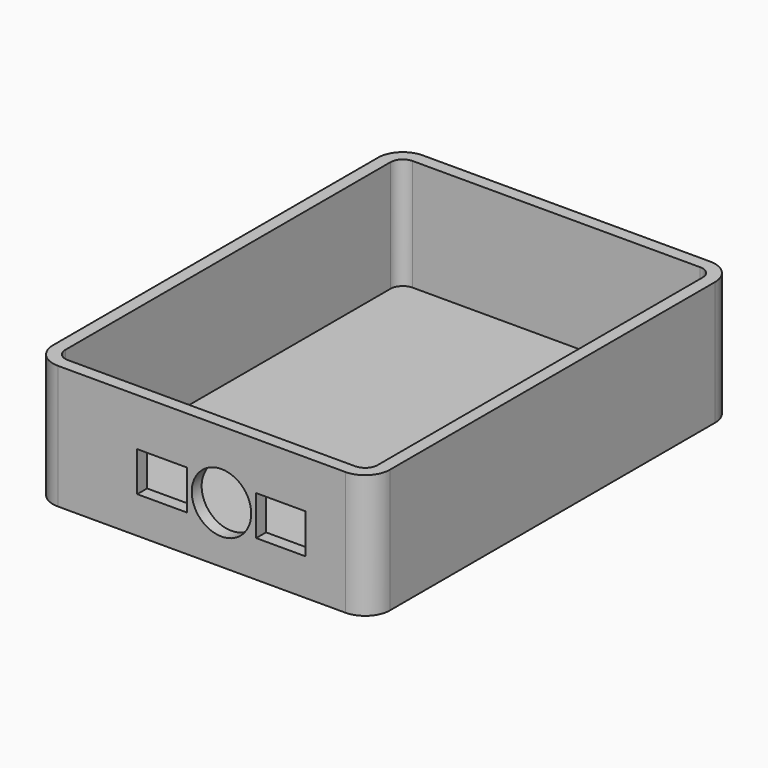
from build123d import *

# Parameters (mm, degrees)
F0_W     = 58
F0_H     = 82
F1_DEPTH = 19
F2_W     = 67.999994
F2_H     = 91.999994
F3_DEPTH = 25
F4_R     = 5
F5_T     = -2.5
F6_W     = 10
F6_H     = 8
F6_R     = 6
F7_DEPTH = 25


with BuildPart() as f1:
    # F0 (on Top) → F1 (new body)
    with BuildSketch(Plane.XY):
        with Locations((29, 41)):
            Rectangle(F0_W, F0_H)
    extrude(amount=F1_DEPTH)


with BuildPart() as f3:
    # F2 (on Top) → F3 (new body)
    with BuildSketch(Plane.XY):
        with Locations((29, 41)):
            Rectangle(F2_W, F2_H)
    extrude(amount=F3_DEPTH)

    # F4
    f4_edges = [f3.edges().sort_by_distance(p)[0] for p in [
        (-4.999997, -4.999997, 12.5),
        (62.999997, -4.999997, 12.5),
        (-4.999997, 86.999997, 12.5),
        (62.999997, 86.999997, 12.5),
    ]]
    fillet(f4_edges, radius=F4_R)

    # F5
    f5_openings = [f3.faces().sort_by_distance(p)[0] for p in [
        (29, 41, 25),
    ]]
    offset(amount=F5_T, openings=f5_openings)


with BuildPart() as f7_tool:
    # F6 (on face) → F7 (new body)
    with BuildSketch(Plane.XZ.offset(4.999997)):
        with Locations((21.000003, 11.4)):
            Rectangle(F6_W, F6_H)
        with Locations((33.000003, 11.4)):
            Circle(F6_R)
        with Locations((45.000003, 11.4)):
            Rectangle(F6_W, F6_H)
    extrude(amount=-F7_DEPTH)


with BuildPart() as f1_1:
    add(f1.part)

    # F7: cut by f7_tool
    add(f7_tool.part, mode=Mode.SUBTRACT)


with BuildPart() as f3_1:
    add(f3.part)

    # F7: cut by f7_tool
    add(f7_tool.part, mode=Mode.SUBTRACT)


solid = f3_1.part
